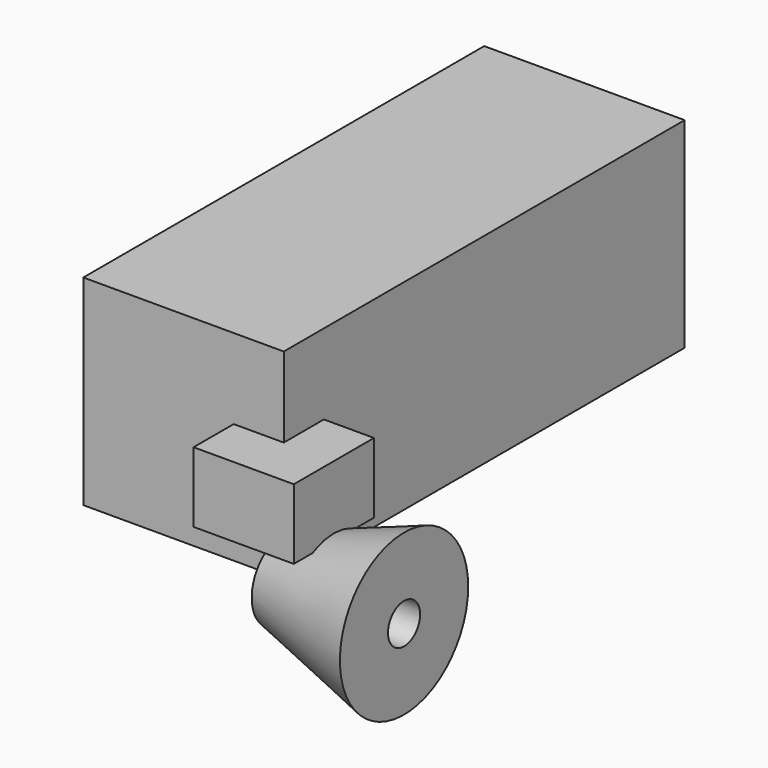
from build123d import *

# Parameters (mm, degrees)
F0_W     = 100
F0_H     = 250
F1_DEPTH = 100
F5_START = 25
F4_W     = 50
F4_H     = 50
F5_DEPTH = 35


with BuildPart() as f1:
    # F0 (on Top) → F1 (new body)
    with BuildSketch(Plane.XY):
        with Locations((-50, 125)):
            Rectangle(F0_W, F0_H)
    extrude(amount=F1_DEPTH)


with BuildPart() as f3:
    # F2 (on Top) → F3 (revolve)
    with BuildSketch(Plane.XY):
        Polygon((60, 40), (0, 20), (0, 10), (60, 10), align=None)
    revolve(axis=Axis((11.9034722447, 0, 0), (1, 0, 0)))


with BuildPart() as f5:
    # F4 (on Top) → F5 (new body)
    with BuildSketch(Plane.XY.offset(F5_START)):
        Rectangle(F4_W, F4_H)
    extrude(amount=F5_DEPTH)


solid = Compound([f1.part, f3.part, f5.part])
